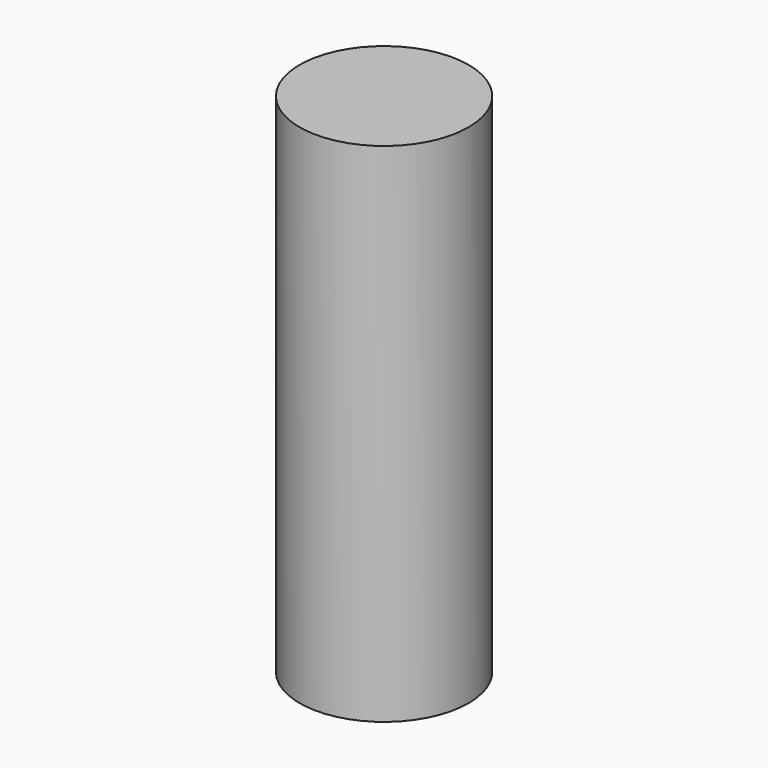
from build123d import *

# Parameters (mm, degrees)
SKETCH_R  = 2.5
PAD_DEPTH = 15


with BuildPart() as part:
    # Sketch → Pad (new body)
    with BuildSketch(Plane.XY):
        Circle(SKETCH_R)
    extrude(amount=PAD_DEPTH)


solid = part.part
